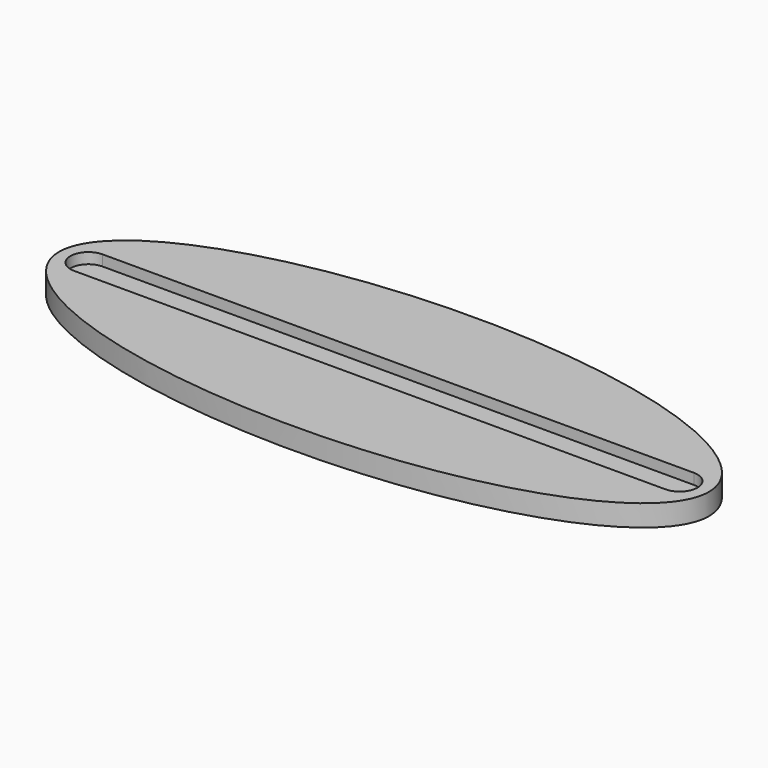
from build123d import *

# Parameters (mm, degrees)
PAD_DEPTH    = 6
POCKET_DEPTH = 3


with BuildPart() as part:
    # Sketch → Pad (new body)
    with BuildSketch(Plane.XY):
        with BuildLine():
            add(Edge.make_bspline(
                [(91.001374, 0), (91.001374, 56.291651), (-45.500687, 28.145826), (-182.002747, 0), (-45.500687, -28.145826), (91.001374, -56.291651), (91.001374, 0)],
                knots=[0, 0, 0, 2.094395, 2.094395, 4.18879, 4.18879, 6.283185, 6.283185, 6.283185], degree=2, weights=[1, 0.5, 1, 0.5, 1, 0.5, 1]))
        make_face()
    extrude(amount=PAD_DEPTH)

    # Sketch001 (on Face3 of Pad) → Pocket (cut)
    with BuildSketch(Plane.XY.offset(6)):
        with BuildLine():
            ThreePointArc((-82.8, 5), (-87.8, 0), (-82.8, -5))
            Line((-82.8, -5), (82.8, -5))
            ThreePointArc((82.8, -5), (87.8, 0), (82.8, 5))
            Line((-82.8, 5), (82.8, 5))
        make_face()
    extrude(amount=-POCKET_DEPTH, mode=Mode.SUBTRACT)


solid = part.part
